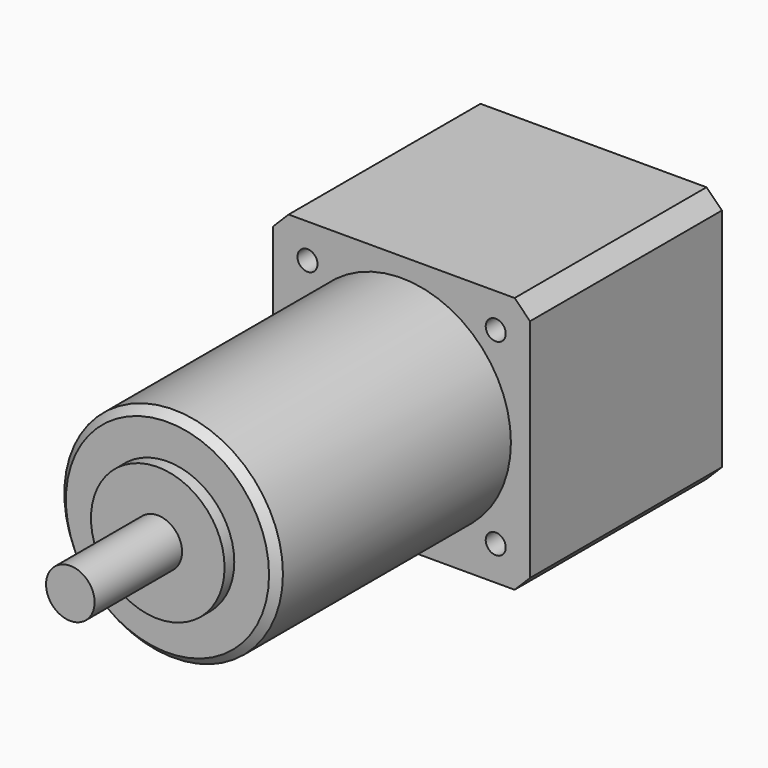
from build123d import *

# Parameters (mm, degrees)
F0_W      = 42.3
F0_H      = 42.3
F1_DEPTH  = 19.75
F2_SIZE   = 2.54
F4_D      = 3.3
F4_DEPTH  = 4.5
F4_TIP    = 0.9914200214
F5_R      = 18
F6_DEPTH  = 48.2
F7_R      = 11
F8_DEPTH  = 2
F9_R      = 4
F10_DEPTH = 18
F11_SIZE  = 1.27


with BuildPart() as f1:
    # F0 (on Front) → F1 (new body, symmetric)
    with BuildSketch(Plane.XZ):
        Rectangle(F0_W, F0_H)
    extrude(amount=F1_DEPTH, both=True)

    # F2
    f2_edges = [f1.edges().sort_by_distance(p)[0] for p in [
        (21.15, 0, 21.15),
        (-21.15, 0, 21.15),
        (-21.15, 0, -21.15),
        (21.15, 0, -21.15),
    ]]
    chamfer(f2_edges, length=F2_SIZE)

    # F4
    with Locations(Plane.XZ.offset(19.75)):
        with Locations((15.5, 15.5), (15.5, -15.5), (-15.5, -15.5), (-15.5, 15.5)):
            Hole(F4_D / 2, depth=F4_DEPTH)
            with Locations((0, 0, -(F4_DEPTH + F4_TIP / 2))):  # 118° drill point
                Cone(0, F4_D / 2, F4_TIP, mode=Mode.SUBTRACT)

    # F5 (on face) → F6 (join)
    with BuildSketch(Plane.XZ.offset(19.75)):
        Circle(F5_R)
    extrude(amount=F6_DEPTH)

    # F7 (on face) → F8 (join)
    with BuildSketch(Plane.XZ.offset(67.95)):
        Circle(F7_R)
    extrude(amount=F8_DEPTH)

    # F9 (on face) → F10 (join)
    with BuildSketch(Plane.XZ.offset(69.95)):
        Circle(F9_R)
    extrude(amount=F10_DEPTH)

    # F11
    f11_edges = [f1.edges().sort_by_distance(p)[0] for p in [
        (-18, -67.95, 0),
    ]]
    chamfer(f11_edges, length=F11_SIZE)


solid = f1.part
